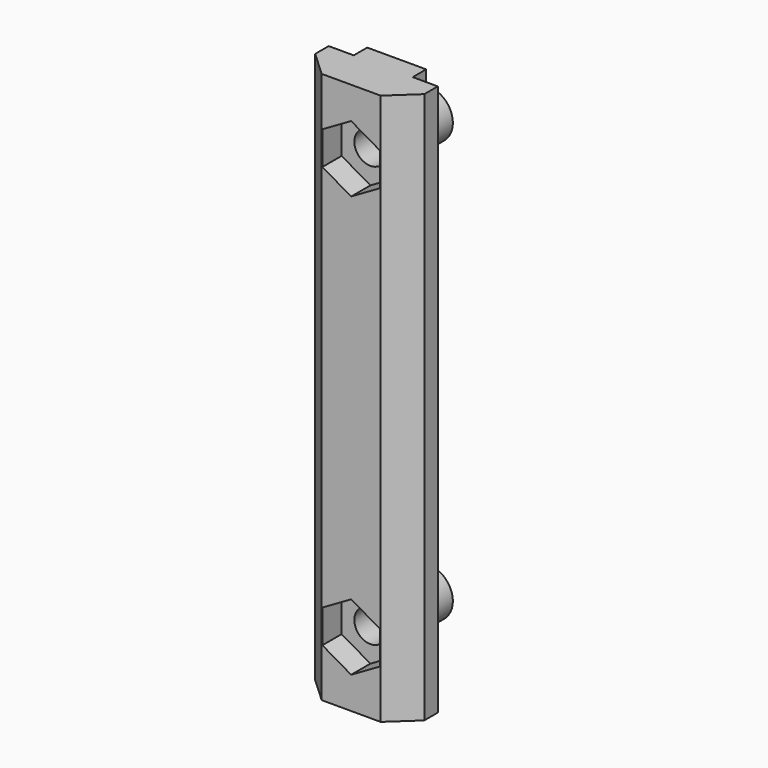
from build123d import *

# Parameters (mm, degrees)
PAD_DEPTH       = 55
SKETCH001_R     = 1.6
POCKET_DEPTH    = 5.68
POCKET001_DEPTH = 2.4
SKETCH003_R     = 2.4
SKETCH003_R_2   = 1.6
PAD001_DEPTH    = 4


with BuildPart() as part:
    # Sketch → Pad (new body)
    with BuildSketch(Plane.XY):
        Polygon((2.94, -2.84), (-2.94, -2.84), (-5.44, -0.52), (-5.44, 1.16), (-2.94, 1.16), (-2.94, 2.84), (2.94, 2.84), (2.94, 1.16), (5.44, 1.16), (5.44, -0.52), align=None)
    extrude(amount=PAD_DEPTH)

    # Sketch001 (on Face6 of Pad) → Pocket (cut)
    with BuildSketch(Plane(origin=(0, 2.84, 0), x_dir=(-1, 0, 0), z_dir=(0, 1, 0))):
        with Locations((0, 48.5)):
            Circle(SKETCH001_R)
        with Locations((0, 6.5)):
            Circle(SKETCH001_R)
    extrude(amount=-POCKET_DEPTH, mode=Mode.SUBTRACT)

    # Sketch002 (on Face1 of Pocket) → Pocket001 (cut)
    with BuildSketch(Plane.XZ.offset(2.84)):
        Polygon((0, 45.186009), (2.87, 46.843005), (2.87, 50.156995), (0, 51.813991), (-2.87, 50.156995), (-2.87, 46.843005), align=None)
        Polygon((0, 3.186009), (2.87, 4.843005), (2.87, 8.156995), (0, 9.813991), (-2.87, 8.156995), (-2.87, 4.843005), align=None)
    extrude(amount=-POCKET001_DEPTH, mode=Mode.SUBTRACT)

    # Sketch003 (on Face22 of Pocket001) → Pad001 (join)
    with BuildSketch(Plane(origin=(0, 2.84, 0), x_dir=(-1, 0, 0), z_dir=(0, 1, 0))):
        with Locations((0, 6.5)):
            Circle(SKETCH003_R)
        with Locations((0, 6.5)):
            Circle(SKETCH003_R_2, mode=Mode.SUBTRACT)
        with Locations((0, 48.5)):
            Circle(SKETCH003_R)
        with Locations((0, 48.5)):
            Circle(SKETCH003_R_2, mode=Mode.SUBTRACT)
    extrude(amount=PAD001_DEPTH)


solid = part.part
